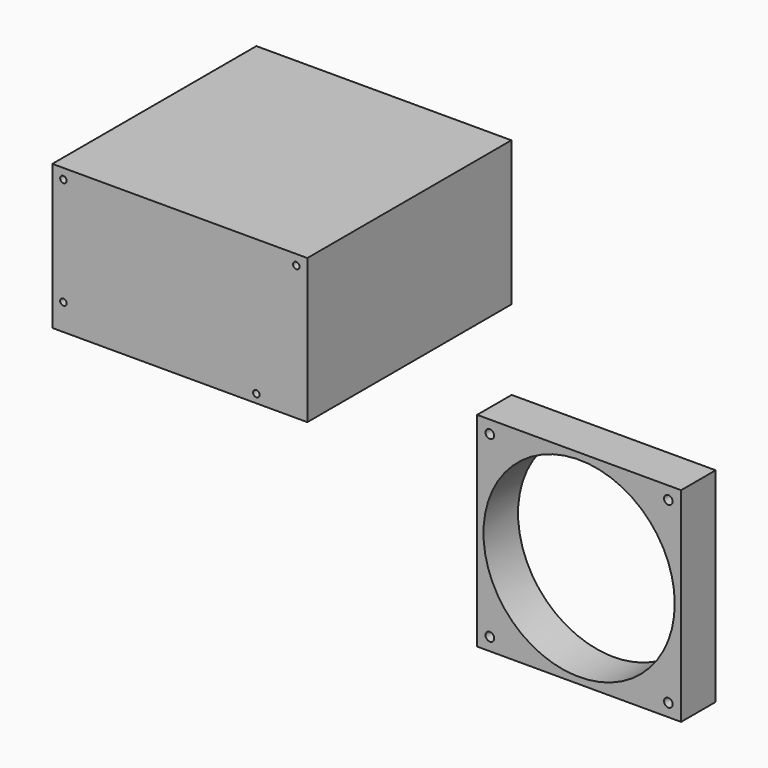
from build123d import *

# Parameters (mm, degrees)
F0_W     = 150
F0_H     = 85
F0_R     = 1.905
F1_DEPTH = 150
F2_W     = 120
F2_H     = 120
F2_R     = 2.54
F2_R_2   = 56.25
F3_DEPTH = 25.4


with BuildPart() as f1:
    # F0 (on Front) → F1 (new body)
    with BuildSketch(Plane.XZ):
        with Locations((11.613344, 84.890347)):
            Rectangle(F0_W, F0_H)
        with Locations((-56.886656, 57.890347)):
            Circle(F0_R, mode=Mode.SUBTRACT)
        with Locations((56.613344, 47.390347)):
            Circle(F0_R, mode=Mode.SUBTRACT)
        with Locations((-56.886656, 121.390347)):
            Circle(F0_R, mode=Mode.SUBTRACT)
        with Locations((80.113344, 121.390347)):
            Circle(F0_R, mode=Mode.SUBTRACT)
    extrude(amount=F1_DEPTH)


with BuildPart() as f3:
    # F2 (on Front) → F3 (new body)
    with BuildSketch(Plane.XZ):
        with Locations((146.782982, -64.399826)):
            Rectangle(F2_W, F2_H)
        with Locations((94.282982, -116.899826)):
            Circle(F2_R, mode=Mode.SUBTRACT)
        with Locations((199.282982, -116.899826)):
            Circle(F2_R, mode=Mode.SUBTRACT)
        with Locations((146.782982, -64.399826)):
            Circle(F2_R_2, mode=Mode.SUBTRACT)
        with Locations((94.282982, -11.899826)):
            Circle(F2_R, mode=Mode.SUBTRACT)
        with Locations((199.282982, -11.899826)):
            Circle(F2_R, mode=Mode.SUBTRACT)
    extrude(amount=F3_DEPTH)


solid = Compound([f1.part, f3.part])
